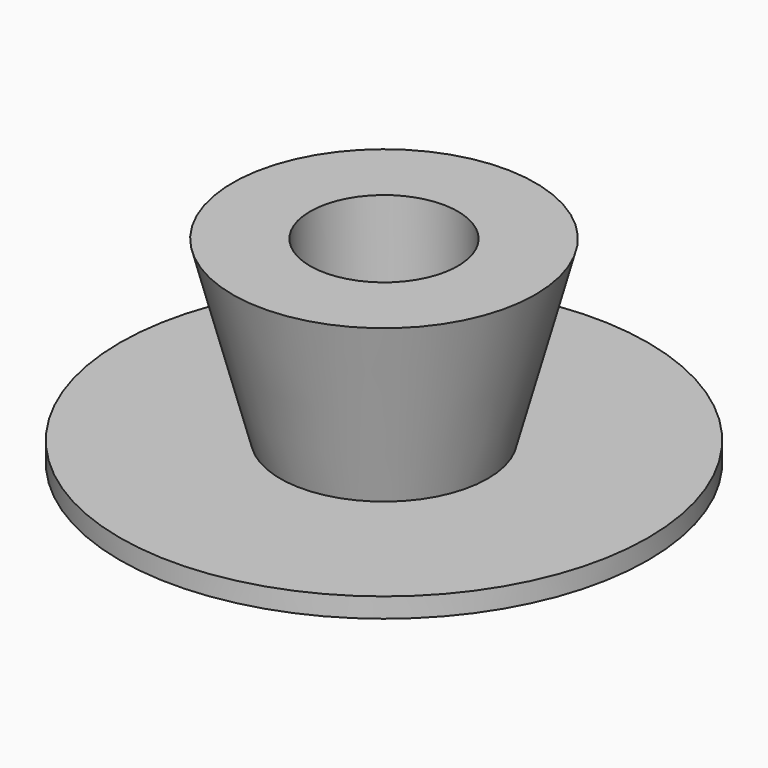
from build123d import *

# Parameters (mm, degrees)
F0_R           = 34.036
F0_R_2         = 6.35
F1_DEPTH       = 2.54
F2_R           = 12.7047221092
F3_DEPTH       = 25.4
F3_TAPER       = -15
F5_D           = 19.05
F5_CSINK_D     = 22.86
F5_CSINK_ANGLE = 90


with BuildPart() as f1:
    # F0 (on Top) → F1 (new body)
    with BuildSketch(Plane.XY):
        Circle(F0_R)
        Circle(F0_R_2, mode=Mode.SUBTRACT)
    extrude(amount=F1_DEPTH)

    # F2 (on Top) → F3 (join)
    with BuildSketch(Plane.XY):
        Circle(F2_R)
    extrude(amount=F3_DEPTH, taper=F3_TAPER)

    # F5 (through all)
    with Locations(Plane(origin=(0, 0, 0), x_dir=(1, 0, 0), z_dir=(0, 0, -1))):
        with Locations((0, 0)):
            CounterSinkHole(F5_D / 2, F5_CSINK_D / 2, counter_sink_angle=F5_CSINK_ANGLE)


solid = f1.part
